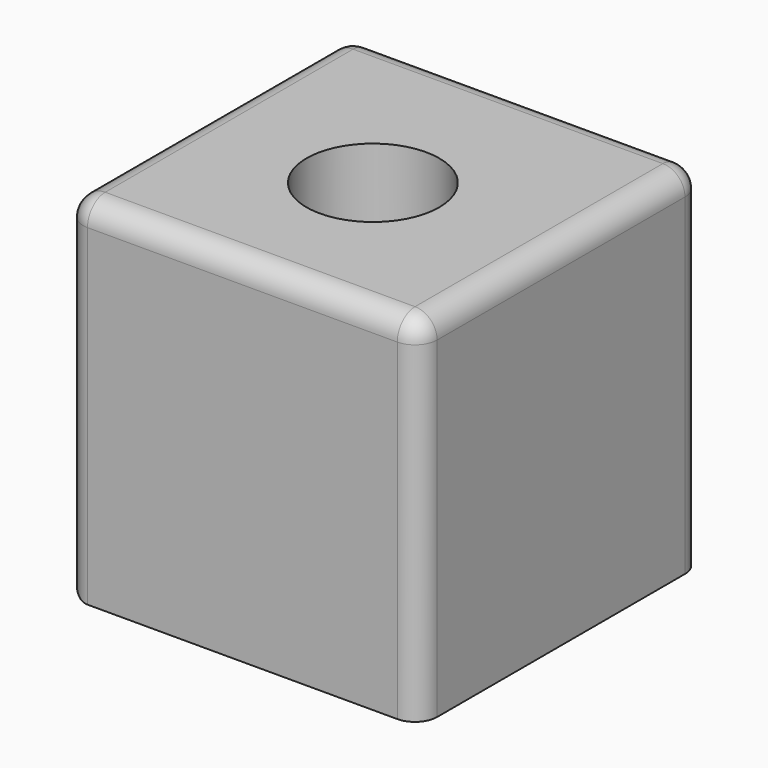
from build123d import *

# Parameters (mm, degrees)
F0_W     = 80
F0_H     = 80
F1_DEPTH = 80
F2_R     = 15
F3_DEPTH = 80.001
F4_R     = 5


with BuildPart() as f1:
    # F0 (on Top) → F1 (new body)
    with BuildSketch(Plane.XY):
        with Locations((-19.29054, 2.671687)):
            Rectangle(F0_W, F0_H)
    extrude(amount=F1_DEPTH)

    # F2 (on face) → F3 (cut, through all)
    with BuildSketch(Plane.XY.offset(80)):
        with Locations((-19.669065, 0)):
            Circle(F2_R)
    extrude(amount=-F3_DEPTH, mode=Mode.SUBTRACT)

    # F4
    f4_edges = [f1.edges().sort_by_distance(p)[0] for p in [
        (-19.29054, 42.671687, 80),
        (-59.29054, 2.671687, 80),
        (-19.29054, -37.328313, 80),
        (-59.29054, 42.671687, 40),
        (-59.29054, -37.328313, 40),
        (-59.29054, 2.671687, 0),
        (20.70946, 42.671687, 40),
        (20.70946, -37.328313, 40),
        (20.70946, 2.671687, 80),
    ]]
    fillet(f4_edges, radius=F4_R)


solid = f1.part
